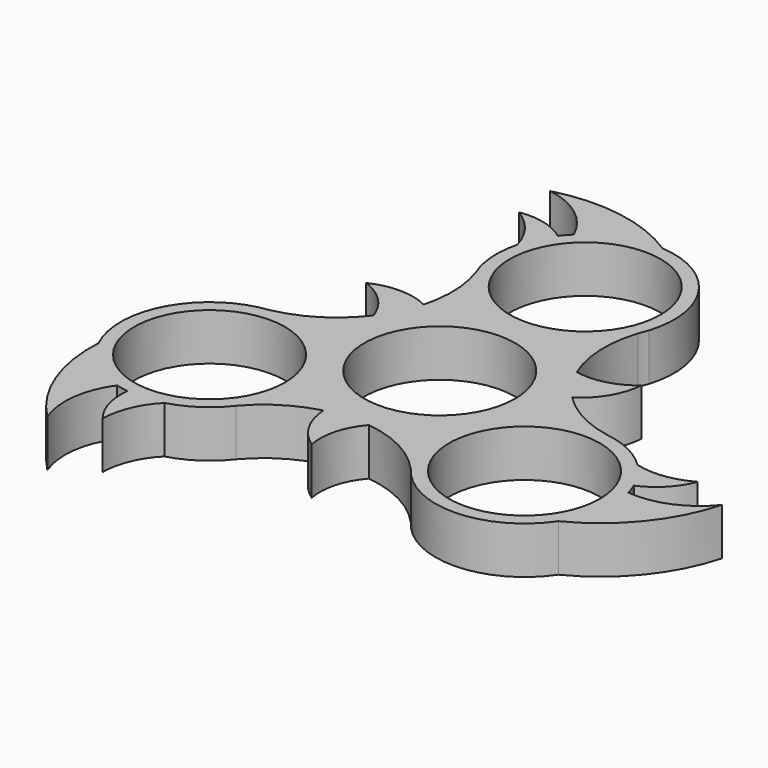
from build123d import *

# Parameters (mm, degrees)
F0_R     = 11.2
F1_DEPTH = 7


with BuildPart() as f1:
    # F0 (on Top) → F1 (new body)
    with BuildSketch(Plane.XY):
        with BuildLine():
            ThreePointArc((12.607152, 9.692054), (11.257343, 15.649858), (12.085942, 21.702199))
            ThreePointArc((12.085942, 21.702199), (12.328056, 22.393477), (12.599527, 23.073762))
            ThreePointArc((12.599527, 23.073762), (10.902494, 34.45122), (0.925569, 40.177251))
            ThreePointArc((0.925569, 40.177251), (-8.325229, 43.76776), (-18.235761, 43.267387))
            ThreePointArc((-18.235761, 43.267387), (-12.868356, 40.997402), (-9.236652, 36.439706))
            ThreePointArc((-9.236652, 36.439706), (-9.882429, 35.760604), (-10.478395, 35.037395))
            ThreePointArc((-10.478395, 35.037395), (-13.91631, 36.688667), (-17.726728, 36.851985))
            ThreePointArc((-17.726728, 36.851985), (-14.612525, 34.08416), (-12.771253, 30.346671))
            ThreePointArc((-12.771253, 30.346671), (-13.17206, 26.151356), (-12.230162, 22.043541))
            ThreePointArc((-12.230162, 22.043541), (-11.270015, 16.969911), (-11.866837, 11.840837))
            ThreePointArc((-11.866837, 11.840837), (-16.162801, 12.871097), (-20.474098, 11.907013))
            ThreePointArc((-20.474098, 11.907013), (-16.909285, 9.659166), (-14.697141, 6.072087))
            ThreePointArc((-14.697141, 6.072087), (-19.181846, 1.924217), (-24.837627, -0.384366))
            ThreePointArc((-24.837627, -0.384366), (-25.557348, -0.520328), (-26.282227, -0.625371))
            ThreePointArc((-26.282227, -0.625371), (-35.286879, -7.783773), (-35.257304, -19.287059))
            ThreePointArc((-35.257304, -19.287059), (-33.741378, -29.09374), (-28.352775, -37.426326))
            ThreePointArc((-28.352775, -37.426326), (-29.070614, -31.643024), (-26.939385, -26.219029))
            ThreePointArc((-26.939385, -26.219029), (-26.028377, -26.438736), (-25.104076, -26.593254))
            ThreePointArc((-25.104076, -26.593254), (-24.815162, -30.396211), (-23.051391, -33.777789))
            ThreePointArc((-23.051391, -33.777789), (-22.211486, -29.696898), (-19.895361, -26.233565))
            ThreePointArc((-19.895361, -26.233565), (-16.061708, -24.483017), (-12.975185, -21.613401))
            ThreePointArc((-12.975185, -21.613401), (-9.061367, -18.245075), (-4.321047, -16.197401))
            ThreePointArc((-4.321047, -16.197401), (-3.065297, -20.432945), (-0.074726, -23.684595))
            ThreePointArc((-0.074726, -23.684595), (0.089559, -19.473453), (2.089989, -15.764141))
            ThreePointArc((2.089989, -15.764141), (7.924503, -17.574074), (12.751684, -21.317832))
            ThreePointArc((12.751684, -21.317832), (13.229291, -21.873148), (13.682701, -22.448391))
            ThreePointArc((13.682701, -22.448391), (24.384385, -26.667447), (34.331735, -20.890191))
            ThreePointArc((34.331735, -20.890191), (42.066607, -14.67402), (46.588536, -5.841061))
            ThreePointArc((46.588536, -5.841061), (41.93897, -9.354378), (36.176037, -10.220678))
            ThreePointArc((36.176037, -10.220678), (35.910805, -9.321868), (35.582472, -8.444141))
            ThreePointArc((35.582472, -8.444141), (38.731472, -6.292455), (40.778119, -3.074196))
            ThreePointArc((40.778119, -3.074196), (36.824011, -4.387262), (32.666614, -4.113106))
            ThreePointArc((32.666614, -4.113106), (29.233768, -1.668339), (25.205347, -0.430139))
            ThreePointArc((25.205347, -0.430139), (20.331382, 1.275164), (16.187884, 4.356564))
            ThreePointArc((16.187884, 4.356564), (19.228098, 7.561847), (20.548824, 11.777583))
            ThreePointArc((20.548824, 11.777583), (16.819725, 9.814287), (12.607152, 9.692054))
        make_face()
        with Locations((-23.391121, -13.50487)):
            Circle(F0_R, mode=Mode.SUBTRACT)
        Circle(F0_R, mode=Mode.SUBTRACT)
        with Locations((23.391121, -13.50487)):
            Circle(F0_R, mode=Mode.SUBTRACT)
        with Locations((0, 27.00974)):
            Circle(F0_R, mode=Mode.SUBTRACT)
    extrude(amount=F1_DEPTH)


solid = f1.part
